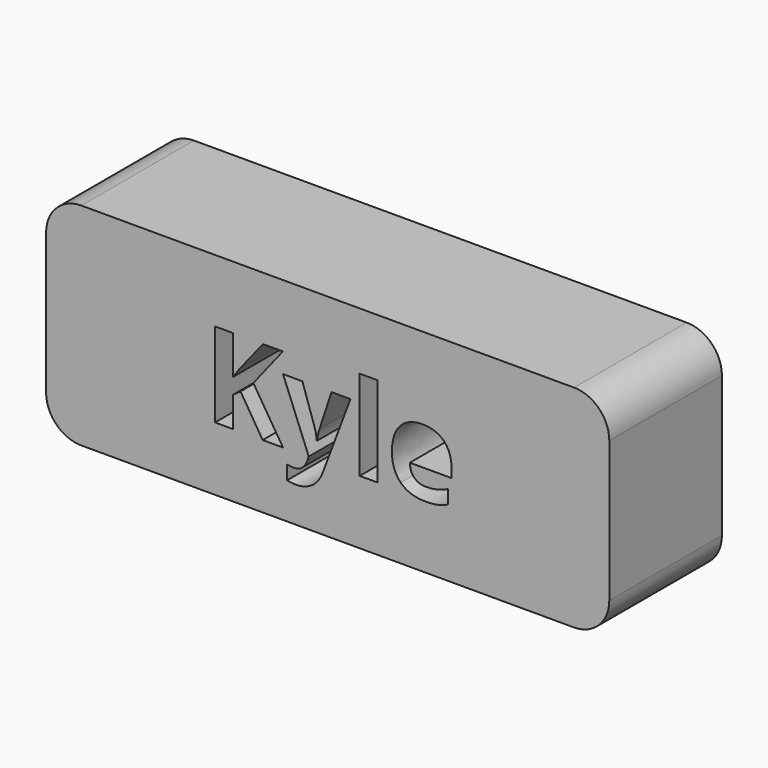
from build123d import *

# Parameters (mm, degrees)
F0_W     = 3.1821551265
F0_H     = 16.2380066949
F1_DEPTH = 25.4


with BuildPart() as f1:
    # F0 (on Front) → F1 (new body)
    with BuildSketch(Plane.XZ):
        with BuildLine():
            ThreePointArc((50.8, 12.7), (48.9401280605, 17.1901280605), (44.45, 19.05))
            Line((44.45, 19.05), (-44.45, 19.05))
            ThreePointArc((-44.45, 19.05), (-48.9401280605, 17.1901280605), (-50.8, 12.7))
            Line((-50.8, 12.7), (-50.8, -12.7))
            ThreePointArc((-50.8, -12.7), (-48.9401280605, -17.1901280605), (-44.45, -19.05))
            Line((-44.45, -19.05), (44.45, -19.05))
            ThreePointArc((44.45, -19.05), (48.9401280605, -17.1901280605), (50.8, -12.7))
            Line((50.8, -12.7), (50.8, 12.7))
        make_face()
        with BuildLine():
            Line((-3.4147352544, -7.4699143124), (-8.0493956066, 4.1133974755))
            Line((-8.0493956066, 4.1133974755), (-4.563383065, 4.1133974755))
            Line((-4.563383065, 4.1133974755), (-2.3629211255, -2.4512583259))
            add(Edge.make_bspline(
                [(-2.3629211255, -2.4512583259), (-2.0790982653, -3.3060659989), (-1.9755863987, -4.4747483644)],
                knots=[0, 0, 0, 1, 1, 1], degree=2))
            Line((-1.9755863987, -4.4747483644), (-1.9121436417, -4.4747483644))
            add(Edge.make_bspline(
                [(-1.9121436417, -4.4747483644), (-1.7986144976, -3.3995605882), (-1.4647052503, -2.4512583259)],
                knots=[0, 0, 0, 1, 1, 1], degree=2))
            Line((-1.4647052503, -2.4512583259), (0.6956875795, 4.1133974755))
            Line((0.6956875795, 4.1133974755), (4.1082400867, 4.1133974755))
            Line((4.1082400867, 4.1133974755), (-0.826938588, -9.0459659596))
            add(Edge.make_bspline(
                [(-0.826938588, -9.0459659596), (-1.5081134525, -10.8724495421), (-2.7652817685, -11.7806826947)],
                knots=[0, 0, 0, 1, 1, 1], degree=2))
            add(Edge.make_bspline(
                [(-2.7652817685, -11.7806826947), (-4.0224500844, -12.6889158473), (-5.7020135982, -12.6889158473)],
                knots=[0, 0, 0, 1, 1, 1], degree=2))
            add(Edge.make_bspline(
                [(-5.7020135982, -12.6889158473), (-6.526769439, -12.6889158473), (-7.318134355, -12.5086048538)],
                knots=[0, 0, 0, 1, 1, 1], degree=2))
            Line((-7.318134355, -12.5086048538), (-7.318134355, -9.9842509444))
            add(Edge.make_bspline(
                [(-7.318134355, -9.9842509444), (-6.7438104497, -10.1211537358), (-6.0659746778, -10.1211537358)],
                knots=[0, 0, 0, 1, 1, 1], degree=2))
            add(Edge.make_bspline(
                [(-6.0659746778, -10.1211537358), (-5.2211842822, -10.1211537358), (-4.5900958048, -9.6035944025)],
                knots=[0, 0, 0, 1, 1, 1], degree=2))
            add(Edge.make_bspline(
                [(-4.5900958048, -9.6035944025), (-3.9590073275, -9.0860350692), (-3.6050635254, -8.0442382177)],
                knots=[0, 0, 0, 1, 1, 1], degree=2))
            Line((-3.6050635254, -8.0442382177), (-3.4147352544, -7.4699143124))
        make_face(mode=Mode.SUBTRACT)
        with BuildLine():
            add(Edge.make_bspline(
                [(19.8954692978, -7.5600698092), (18.9471670355, -7.76375445), (17.5781391217, -7.76375445)],
                knots=[0, 0, 0, 1, 1, 1], degree=2))
            add(Edge.make_bspline(
                [(17.5781391217, -7.76375445), (14.7632841672, -7.76375445), (13.1772152426, -6.2077373577)],
                knots=[0, 0, 0, 1, 1, 1], degree=2))
            add(Edge.make_bspline(
                [(13.1772152426, -6.2077373577), (11.5911463181, -4.6517202654), (11.5911463181, -1.8034743862)],
                knots=[0, 0, 0, 1, 1, 1], degree=2))
            add(Edge.make_bspline(
                [(11.5911463181, -1.8034743862), (11.5911463181, 1.1282488049), (13.0570079136, 2.7293436456)],
                knots=[0, 0, 0, 1, 1, 1], degree=2))
            add(Edge.make_bspline(
                [(13.0570079136, 2.7293436456), (14.5228695092, 4.3304384862), (17.1106661755, 4.3304384862)],
                knots=[0, 0, 0, 1, 1, 1], degree=2))
            add(Edge.make_bspline(
                [(17.1106661755, 4.3304384862), (19.5815946054, 4.3304384862), (20.9589702504, 2.923011009)],
                knots=[0, 0, 0, 1, 1, 1], degree=2))
            add(Edge.make_bspline(
                [(20.9589702504, 2.923011009), (22.3363458954, 1.5155835317), (22.3363458954, -0.968701268)],
                knots=[0, 0, 0, 1, 1, 1], degree=2))
            Line((22.3363458954, -0.968701268), (22.3363458954, -2.5147010829))
            Line((22.3363458954, -2.5147010829), (14.8133705543, -2.5147010829))
            add(Edge.make_bspline(
                [(14.8133705543, -2.5147010829), (14.8667960339, -3.8703726268), (15.6180918402, -4.6316857106)],
                knots=[0, 0, 0, 1, 1, 1], degree=2))
            add(Edge.make_bspline(
                [(15.6180918402, -4.6316857106), (16.3693876466, -5.3929987944), (17.7250591905, -5.3929987944)],
                knots=[0, 0, 0, 1, 1, 1], degree=2))
            add(Edge.make_bspline(
                [(17.7250591905, -5.3929987944), (18.7802124119, -5.3929987944), (19.7184973968, -5.1742882374)],
                knots=[0, 0, 0, 1, 1, 1], degree=2))
            add(Edge.make_bspline(
                [(19.7184973968, -5.1742882374), (20.6567823816, -4.9555776804), (21.6785446783, -4.4747483644)],
                knots=[0, 0, 0, 1, 1, 1], degree=2))
            Line((21.6785446783, -4.4747483644), (21.6785446783, -6.9389986093))
            add(Edge.make_bspline(
                [(21.6785446783, -6.9389986093), (20.8437715601, -7.3563851684), (19.8954692978, -7.5600698092)],
                knots=[0, 0, 0, 1, 1, 1], degree=2))
        make_face(mode=Mode.SUBTRACT)
        Polygon((-13.4119781178, 0.9512769038), (-8.0493956066, -7.5533916242), (-11.7223973266, -7.5533916242), (-15.7192910165, -1.1256386142), (-17.0849798378, -2.1073318012), (-17.0849798378, -7.5533916242), (-20.3205604439, -7.5533916242), (-20.3205604439, 7.7029218837), (-17.0849798378, 7.7029218837), (-17.0849798378, 0.7208795232), (-15.8127856057, 2.5173112736), (-11.6789891244, 7.7029218837), (-8.0894647162, 7.7029218837), align=None, mode=Mode.SUBTRACT)
        with Locations((7.3688638863, 0.5656117232)):
            Rectangle(F0_W, F0_H, mode=Mode.SUBTRACT)
    extrude(amount=F1_DEPTH)


solid = f1.part
